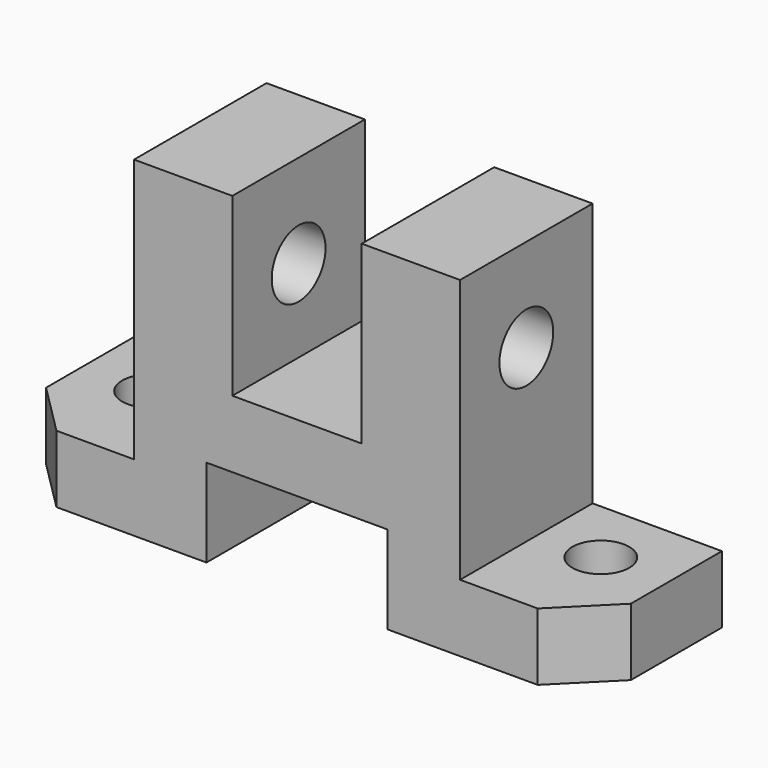
from build123d import *

# Parameters (mm, degrees)
F1_DEPTH = 32
F2_R     = 6.5
F3_DEPTH = 113.001
F5_DEPTH = 64.001
F6_DEPTH = 64.001
F4_R     = 5.5
F7_DEPTH = 64.001
F8_DEPTH = 64.001


with BuildPart() as f1:
    # F0 (on Front) → F1 (new body)
    with BuildSketch(Plane.XZ):
        Polygon((0, 13), (0, 0), (39, 0), (39, 17), (74, 17), (74, 0), (113, 0), (113, 13), (88, 13), (88, 64), (69, 64), (69, 30), (44, 30), (44, 64), (25, 64), (25, 13), align=None)
    extrude(amount=F1_DEPTH)

    # F2 (on Right) → F3 (cut, through all)
    with BuildSketch(Plane.YZ):
        with Locations((-16, 46)):
            Circle(F2_R)
    extrude(amount=F3_DEPTH, mode=Mode.SUBTRACT)

    # F4 (on Top) → F5 (cut, through all)
    with BuildSketch(Plane.XY):
        Polygon((10, -32), (0, -22), (0, -32), align=None)
    extrude(amount=F5_DEPTH, mode=Mode.SUBTRACT)

    # F4 (on Top) → F6 (cut, through all)
    with BuildSketch(Plane.XY):
        Polygon((113, -32), (113, -22), (103, -32), align=None)
    extrude(amount=F6_DEPTH, mode=Mode.SUBTRACT)

    # F4 (on Top) → F7 (cut, through all)
    with BuildSketch(Plane.XY):
        with Locations((13, -13)):
            Circle(F4_R)
    extrude(amount=F7_DEPTH, mode=Mode.SUBTRACT)

    # F4 (on Top) → F8 (cut, through all)
    with BuildSketch(Plane.XY):
        with Locations((100, -13)):
            Circle(F4_R)
    extrude(amount=F8_DEPTH, mode=Mode.SUBTRACT)


solid = f1.part
